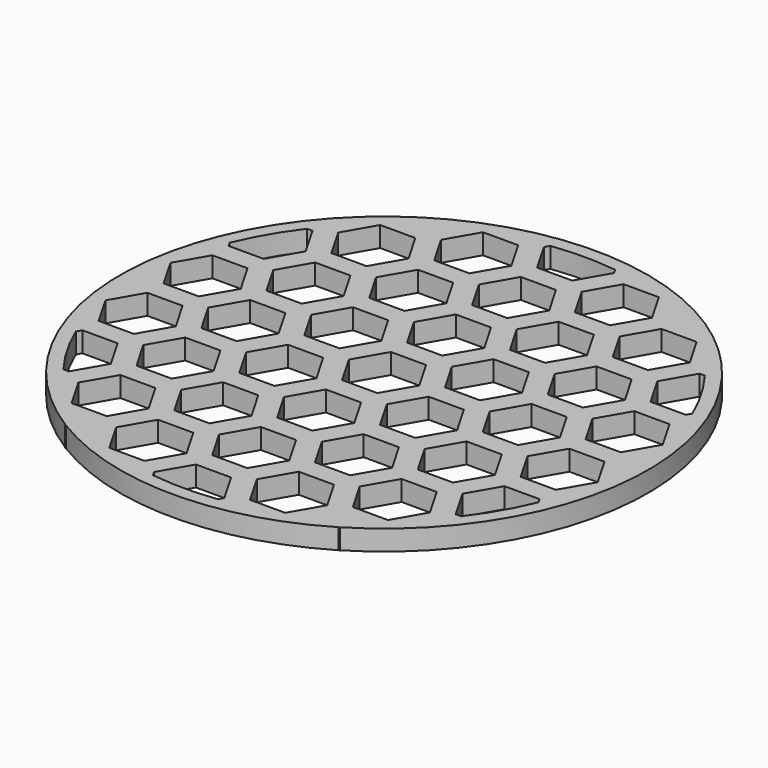
from build123d import *

# Parameters (mm, degrees)
F0_R     = 41.275
F1_DEPTH = 3.175
F3_DEPTH = 25.4
F4_R     = 41.275
F4_R_2   = 39.1668
F5_DEPTH = 3.175
F6_W     = 2.928137
F6_H     = 2.608706
F6_W_2   = 1.36809
F6_H_2   = 3.567759
F6_W_3   = 2.869069
F6_H_3   = 2.529212
F6_W_4   = 1.741487
F6_H_4   = 4.238186
F6_W_5   = 3.680105
F6_H_5   = 3.099035
F6_W_6   = 3.728525
F6_H_6   = 2.856921
F7_DEPTH = 3.175


with BuildPart() as f1:
    # F0 (on Top) → F1 (new body)
    with BuildSketch(Plane.XY):
        Circle(F0_R)
    extrude(amount=F1_DEPTH)

    # F2 (on face) → F3 (cut)
    with BuildSketch(Plane.XY.offset(3.175)):
        Polygon((-41.243169, -46.0375), (-46.742431, -46.0375), (-49.492061, -50.8), (-46.742431, -55.5625), (-41.243169, -55.5625), (-38.493539, -50.8), align=None)
        Polygon((-30.244647, -39.6875), (-35.743908, -39.6875), (-38.493539, -44.45), (-35.743908, -49.2125), (-30.244647, -49.2125), (-27.495016, -44.45), align=None)
        Polygon((-41.243169, -33.3375), (-46.742431, -33.3375), (-49.492061, -38.1), (-46.742431, -42.8625), (-41.243169, -42.8625), (-38.493539, -38.1), align=None)
        Polygon((-41.243169, -20.6375), (-46.742431, -20.6375), (-49.492061, -25.4), (-46.742431, -30.1625), (-41.243169, -30.1625), (-38.493539, -25.4), align=None)
        Polygon((-19.246769, -46.0375), (-24.746031, -46.0375), (-27.495661, -50.8), (-24.746031, -55.5625), (-19.246769, -55.5625), (-16.497139, -50.8), align=None)
        Polygon((-19.246769, -33.3375), (-24.746031, -33.3375), (-27.495661, -38.1), (-24.746031, -42.8625), (-19.246769, -42.8625), (-16.497139, -38.1), align=None)
        Polygon((-19.246769, -20.6375), (-24.746031, -20.6375), (-27.495661, -25.4), (-24.746031, -30.1625), (-19.246769, -30.1625), (-16.497139, -25.4), align=None)
        Polygon((2.749631, -46.0375), (-2.749631, -46.0375), (-5.499261, -50.8), (-2.749631, -55.5625), (2.749631, -55.5625), (5.499261, -50.8), align=None)
        Polygon((2.749631, -33.3375), (-2.749631, -33.3375), (-5.499261, -38.1), (-2.749631, -42.8625), (2.749631, -42.8625), (5.499261, -38.1), align=None)
        Polygon((2.749631, -20.6375), (-2.749631, -20.6375), (-5.499261, -25.4), (-2.749631, -30.1625), (2.749631, -30.1625), (5.499261, -25.4), align=None)
        Polygon((-41.243169, -7.9375), (-46.742431, -7.9375), (-49.492061, -12.7), (-46.742431, -17.4625), (-41.243169, -17.4625), (-38.493539, -12.7), align=None)
        Polygon((-19.246769, -7.9375), (-24.746031, -7.9375), (-27.495661, -12.7), (-24.746031, -17.4625), (-19.246769, -17.4625), (-16.497139, -12.7), align=None)
        Polygon((2.749631, -7.9375), (-2.749631, -7.9375), (-5.499261, -12.7), (-2.749631, -17.4625), (2.749631, -17.4625), (5.499261, -12.7), align=None)
        Polygon((-35.743908, -26.9875), (-38.493539, -31.75), (-35.743908, -36.5125), (-30.244647, -36.5125), (-27.495016, -31.75), (-30.244647, -26.9875), align=None)
        Polygon((-35.743908, -14.2875), (-38.493539, -19.05), (-35.743908, -23.8125), (-30.244647, -23.8125), (-27.495016, -19.05), (-30.244647, -14.2875), align=None)
        Polygon((-35.743908, -1.5875), (-38.493539, -6.35), (-35.743908, -11.1125), (-30.244647, -11.1125), (-27.495016, -6.35), (-30.244647, -1.5875), align=None)
        Polygon((-13.747508, -39.6875), (-16.497139, -44.45), (-13.747508, -49.2125), (-8.248247, -49.2125), (-5.498616, -44.45), (-8.248247, -39.6875), align=None)
        Polygon((-13.747508, -26.9875), (-16.497139, -31.75), (-13.747508, -36.5125), (-8.248247, -36.5125), (-5.498616, -31.75), (-8.248247, -26.9875), align=None)
        Polygon((-13.747508, -14.2875), (-16.497139, -19.05), (-13.747508, -23.8125), (-8.248247, -23.8125), (-5.498616, -19.05), (-8.248247, -14.2875), align=None)
        Polygon((-13.747508, -1.5875), (-16.497139, -6.35), (-13.747508, -11.1125), (-8.248247, -11.1125), (-5.498616, -6.35), (-8.248247, -1.5875), align=None)
        Polygon((24.746031, -46.0375), (19.246769, -46.0375), (16.497139, -50.8), (19.246769, -55.5625), (24.746031, -55.5625), (27.495661, -50.8), align=None)
        Polygon((24.746031, -33.3375), (19.246769, -33.3375), (16.497139, -38.1), (19.246769, -42.8625), (24.746031, -42.8625), (27.495661, -38.1), align=None)
        Polygon((24.746031, -20.6375), (19.246769, -20.6375), (16.497139, -25.4), (19.246769, -30.1625), (24.746031, -30.1625), (27.495661, -25.4), align=None)
        Polygon((24.746031, -7.9375), (19.246769, -7.9375), (16.497139, -12.7), (19.246769, -17.4625), (24.746031, -17.4625), (27.495661, -12.7), align=None)
        Polygon((46.742431, -46.0375), (41.243169, -46.0375), (38.493539, -50.8), (41.243169, -55.5625), (46.742431, -55.5625), (49.492061, -50.8), align=None)
        Polygon((46.742431, -33.3375), (41.243169, -33.3375), (38.493539, -38.1), (41.243169, -42.8625), (46.742431, -42.8625), (49.492061, -38.1), align=None)
        Polygon((46.742431, -20.6375), (41.243169, -20.6375), (38.493539, -25.4), (41.243169, -30.1625), (46.742431, -30.1625), (49.492061, -25.4), align=None)
        Polygon((46.742431, -7.9375), (41.243169, -7.9375), (38.493539, -12.7), (41.243169, -17.4625), (46.742431, -17.4625), (49.492061, -12.7), align=None)
        Polygon((68.738831, -46.0375), (63.239569, -46.0375), (60.489939, -50.8), (63.239569, -55.5625), (68.738831, -55.5625), (71.488461, -50.8), align=None)
        Polygon((68.738831, -33.3375), (63.239569, -33.3375), (60.489939, -38.1), (63.239569, -42.8625), (68.738831, -42.8625), (71.488461, -38.1), align=None)
        Polygon((68.738831, -20.6375), (63.239569, -20.6375), (60.489939, -25.4), (63.239569, -30.1625), (68.738831, -30.1625), (71.488461, -25.4), align=None)
        Polygon((68.738831, -7.9375), (63.239569, -7.9375), (60.489939, -12.7), (63.239569, -17.4625), (68.738831, -17.4625), (71.488461, -12.7), align=None)
        Polygon((8.248892, -39.6875), (5.499261, -44.45), (8.248892, -49.2125), (13.748153, -49.2125), (16.497784, -44.45), (13.748153, -39.6875), align=None)
        Polygon((8.248892, -26.9875), (5.499261, -31.75), (8.248892, -36.5125), (13.748153, -36.5125), (16.497784, -31.75), (13.748153, -26.9875), align=None)
        Polygon((8.248892, -14.2875), (5.499261, -19.05), (8.248892, -23.8125), (13.748153, -23.8125), (16.497784, -19.05), (13.748153, -14.2875), align=None)
        Polygon((8.248892, -1.5875), (5.499261, -6.35), (8.248892, -11.1125), (13.748153, -11.1125), (16.497784, -6.35), (13.748153, -1.5875), align=None)
        Polygon((30.245292, -39.6875), (27.495661, -44.45), (30.245292, -49.2125), (35.744553, -49.2125), (38.494184, -44.45), (35.744553, -39.6875), align=None)
        Polygon((30.245292, -26.9875), (27.495661, -31.75), (30.245292, -36.5125), (35.744553, -36.5125), (38.494184, -31.75), (35.744553, -26.9875), align=None)
        Polygon((30.245292, -14.2875), (27.495661, -19.05), (30.245292, -23.8125), (35.744553, -23.8125), (38.494184, -19.05), (35.744553, -14.2875), align=None)
        Polygon((30.245292, -1.5875), (27.495661, -6.35), (30.245292, -11.1125), (35.744553, -11.1125), (38.494184, -6.35), (35.744553, -1.5875), align=None)
        Polygon((52.241692, -39.6875), (49.492061, -44.45), (52.241692, -49.2125), (57.740953, -49.2125), (60.490584, -44.45), (57.740953, -39.6875), align=None)
        Polygon((52.241692, -26.9875), (49.492061, -31.75), (52.241692, -36.5125), (57.740953, -36.5125), (60.490584, -31.75), (57.740953, -26.9875), align=None)
        Polygon((52.241692, -14.2875), (49.492061, -19.05), (52.241692, -23.8125), (57.740953, -23.8125), (60.490584, -19.05), (57.740953, -14.2875), align=None)
        Polygon((52.241692, -1.5875), (49.492061, -6.35), (52.241692, -11.1125), (57.740953, -11.1125), (60.490584, -6.35), (57.740953, -1.5875), align=None)
        Polygon((-41.243169, 4.7625), (-46.742431, 4.7625), (-49.492061, 0), (-46.742431, -4.7625), (-41.243169, -4.7625), (-38.493539, 0), align=None)
        Polygon((-41.243169, 17.4625), (-46.742431, 17.4625), (-49.492061, 12.7), (-46.742431, 7.9375), (-41.243169, 7.9375), (-38.493539, 12.7), align=None)
        Polygon((-41.243169, 30.1625), (-46.742431, 30.1625), (-49.492061, 25.4), (-46.742431, 20.6375), (-41.243169, 20.6375), (-38.493539, 25.4), align=None)
        Polygon((-41.243169, 42.8625), (-46.742431, 42.8625), (-49.492061, 38.1), (-46.742431, 33.3375), (-41.243169, 33.3375), (-38.493539, 38.1), align=None)
        Polygon((-19.246769, 4.7625), (-24.746031, 4.7625), (-27.495661, 0), (-24.746031, -4.7625), (-19.246769, -4.7625), (-16.497139, 0), align=None)
        Polygon((-19.246769, 17.4625), (-24.746031, 17.4625), (-27.495661, 12.7), (-24.746031, 7.9375), (-19.246769, 7.9375), (-16.497139, 12.7), align=None)
        Polygon((-19.246769, 30.1625), (-24.746031, 30.1625), (-27.495661, 25.4), (-24.746031, 20.6375), (-19.246769, 20.6375), (-16.497139, 25.4), align=None)
        Polygon((-19.246769, 42.8625), (-24.746031, 42.8625), (-27.495661, 38.1), (-24.746031, 33.3375), (-19.246769, 33.3375), (-16.497139, 38.1), align=None)
        Polygon((2.749631, 4.7625), (-2.749631, 4.7625), (-5.499261, 0), (-2.749631, -4.7625), (2.749631, -4.7625), (5.499261, 0), align=None)
        Polygon((2.749631, 17.4625), (-2.749631, 17.4625), (-5.499261, 12.7), (-2.749631, 7.9375), (2.749631, 7.9375), (5.499261, 12.7), align=None)
        Polygon((2.749631, 30.1625), (-2.749631, 30.1625), (-5.499261, 25.4), (-2.749631, 20.6375), (2.749631, 20.6375), (5.499261, 25.4), align=None)
        Polygon((2.749631, 42.8625), (-2.749631, 42.8625), (-5.499261, 38.1), (-2.749631, 33.3375), (2.749631, 33.3375), (5.499261, 38.1), align=None)
        Polygon((24.746031, 4.7625), (19.246769, 4.7625), (16.497139, 0), (19.246769, -4.7625), (24.746031, -4.7625), (27.495661, 0), align=None)
        Polygon((24.746031, 17.4625), (19.246769, 17.4625), (16.497139, 12.7), (19.246769, 7.9375), (24.746031, 7.9375), (27.495661, 12.7), align=None)
        Polygon((24.746031, 30.1625), (19.246769, 30.1625), (16.497139, 25.4), (19.246769, 20.6375), (24.746031, 20.6375), (27.495661, 25.4), align=None)
        Polygon((24.746031, 42.8625), (19.246769, 42.8625), (16.497139, 38.1), (19.246769, 33.3375), (24.746031, 33.3375), (27.495661, 38.1), align=None)
        Polygon((46.742431, 4.7625), (41.243169, 4.7625), (38.493539, 0), (41.243169, -4.7625), (46.742431, -4.7625), (49.492061, 0), align=None)
        Polygon((46.742431, 17.4625), (41.243169, 17.4625), (38.493539, 12.7), (41.243169, 7.9375), (46.742431, 7.9375), (49.492061, 12.7), align=None)
        Polygon((46.742431, 30.1625), (41.243169, 30.1625), (38.493539, 25.4), (41.243169, 20.6375), (46.742431, 20.6375), (49.492061, 25.4), align=None)
        Polygon((46.742431, 42.8625), (41.243169, 42.8625), (38.493539, 38.1), (41.243169, 33.3375), (46.742431, 33.3375), (49.492061, 38.1), align=None)
        Polygon((68.738831, 4.7625), (63.239569, 4.7625), (60.489939, 0), (63.239569, -4.7625), (68.738831, -4.7625), (71.488461, 0), align=None)
        Polygon((68.738831, 17.4625), (63.239569, 17.4625), (60.489939, 12.7), (63.239569, 7.9375), (68.738831, 7.9375), (71.488461, 12.7), align=None)
        Polygon((68.738831, 30.1625), (63.239569, 30.1625), (60.489939, 25.4), (63.239569, 20.6375), (68.738831, 20.6375), (71.488461, 25.4), align=None)
        Polygon((68.738831, 42.8625), (63.239569, 42.8625), (60.489939, 38.1), (63.239569, 33.3375), (68.738831, 33.3375), (71.488461, 38.1), align=None)
        Polygon((-35.743908, 11.1125), (-38.493539, 6.35), (-35.743908, 1.5875), (-30.244647, 1.5875), (-27.495016, 6.35), (-30.244647, 11.1125), align=None)
        Polygon((-35.743908, 23.8125), (-38.493539, 19.05), (-35.743908, 14.2875), (-30.244647, 14.2875), (-27.495016, 19.05), (-30.244647, 23.8125), align=None)
        Polygon((-35.743908, 36.5125), (-38.493539, 31.75), (-35.743908, 26.9875), (-30.244647, 26.9875), (-27.495016, 31.75), (-30.244647, 36.5125), align=None)
        Polygon((-13.747508, 11.1125), (-16.497139, 6.35), (-13.747508, 1.5875), (-8.248247, 1.5875), (-5.498616, 6.35), (-8.248247, 11.1125), align=None)
        Polygon((-13.747508, 23.8125), (-16.497139, 19.05), (-13.747508, 14.2875), (-8.248247, 14.2875), (-5.498616, 19.05), (-8.248247, 23.8125), align=None)
        Polygon((-13.747508, 36.5125), (-16.497139, 31.75), (-13.747508, 26.9875), (-8.248247, 26.9875), (-5.498616, 31.75), (-8.248247, 36.5125), align=None)
        Polygon((8.248892, 11.1125), (5.499261, 6.35), (8.248892, 1.5875), (13.748153, 1.5875), (16.497784, 6.35), (13.748153, 11.1125), align=None)
        Polygon((8.248892, 23.8125), (5.499261, 19.05), (8.248892, 14.2875), (13.748153, 14.2875), (16.497784, 19.05), (13.748153, 23.8125), align=None)
        Polygon((8.248892, 36.5125), (5.499261, 31.75), (8.248892, 26.9875), (13.748153, 26.9875), (16.497784, 31.75), (13.748153, 36.5125), align=None)
        Polygon((30.245292, 11.1125), (27.495661, 6.35), (30.245292, 1.5875), (35.744553, 1.5875), (38.494184, 6.35), (35.744553, 11.1125), align=None)
        Polygon((30.245292, 23.8125), (27.495661, 19.05), (30.245292, 14.2875), (35.744553, 14.2875), (38.494184, 19.05), (35.744553, 23.8125), align=None)
        Polygon((30.245292, 36.5125), (27.495661, 31.75), (30.245292, 26.9875), (35.744553, 26.9875), (38.494184, 31.75), (35.744553, 36.5125), align=None)
        Polygon((52.241692, 11.1125), (49.492061, 6.35), (52.241692, 1.5875), (57.740953, 1.5875), (60.490584, 6.35), (57.740953, 11.1125), align=None)
        Polygon((52.241692, 23.8125), (49.492061, 19.05), (52.241692, 14.2875), (57.740953, 14.2875), (60.490584, 19.05), (57.740953, 23.8125), align=None)
        Polygon((52.241692, 36.5125), (49.492061, 31.75), (52.241692, 26.9875), (57.740953, 26.9875), (60.490584, 31.75), (57.740953, 36.5125), align=None)
        Polygon((-35.743908, 49.2125), (-38.493539, 44.45), (-35.743908, 39.6875), (-30.244647, 39.6875), (-27.495016, 44.45), (-30.244647, 49.2125), align=None)
        Polygon((-13.747508, 49.2125), (-16.497139, 44.45), (-13.747508, 39.6875), (-8.248247, 39.6875), (-5.498616, 44.45), (-8.248247, 49.2125), align=None)
        Polygon((8.248892, 49.2125), (5.499261, 44.45), (8.248892, 39.6875), (13.748153, 39.6875), (16.497784, 44.45), (13.748153, 49.2125), align=None)
        Polygon((30.245292, 49.2125), (27.495661, 44.45), (30.245292, 39.6875), (35.744553, 39.6875), (38.494184, 44.45), (35.744553, 49.2125), align=None)
        Polygon((52.241692, 49.2125), (49.492061, 44.45), (52.241692, 39.6875), (57.740953, 39.6875), (60.490584, 44.45), (57.740953, 49.2125), align=None)
        Polygon((-41.243169, 55.5625), (-46.742431, 55.5625), (-49.492061, 50.8), (-46.742431, 46.0375), (-41.243169, 46.0375), (-38.493539, 50.8), align=None)
        Polygon((-19.246769, 55.5625), (-24.746031, 55.5625), (-27.495661, 50.8), (-24.746031, 46.0375), (-19.246769, 46.0375), (-16.497139, 50.8), align=None)
        Polygon((2.749631, 55.5625), (-2.749631, 55.5625), (-5.499261, 50.8), (-2.749631, 46.0375), (2.749631, 46.0375), (5.499261, 50.8), align=None)
        Polygon((24.746031, 55.5625), (19.246769, 55.5625), (16.497139, 50.8), (19.246769, 46.0375), (24.746031, 46.0375), (27.495661, 50.8), align=None)
        Polygon((46.742431, 55.5625), (41.243169, 55.5625), (38.493539, 50.8), (41.243169, 46.0375), (46.742431, 46.0375), (49.492061, 50.8), align=None)
        Polygon((68.738831, 55.5625), (63.239569, 55.5625), (60.489939, 50.8), (63.239569, 46.0375), (68.738831, 46.0375), (71.488461, 50.8), align=None)
    extrude(amount=-F3_DEPTH, mode=Mode.SUBTRACT)

    # F4 (on face) → F5 (join, through all)
    with BuildSketch(Plane.XY.offset(3.175)):
        Circle(F4_R)
        Circle(F4_R_2, mode=Mode.SUBTRACT)
    extrude(amount=-F5_DEPTH)

    # F6 (on face) → F7 (join, through all)
    with BuildSketch(Plane.XY.offset(3.175)):
        with Locations((-19.675461, 33.856297)):
            Rectangle(F6_W, F6_H)
        with Locations((-38.932055, -0.184974)):
            Rectangle(F6_W_2, F6_H_2)
        with Locations((19.52964, 33.81655)):
            Rectangle(F6_W_3, F6_H_3)
        with Locations((38.933857, 0.206108)):
            Rectangle(F6_W_4, F6_H_4)
        with Locations((19.499769, -33.865685)):
            Rectangle(F6_W_5, F6_H_5)
        with Locations((-19.891866, -33.744627)):
            Rectangle(F6_W_6, F6_H_6)
    extrude(amount=-F7_DEPTH)


solid = f1.part
